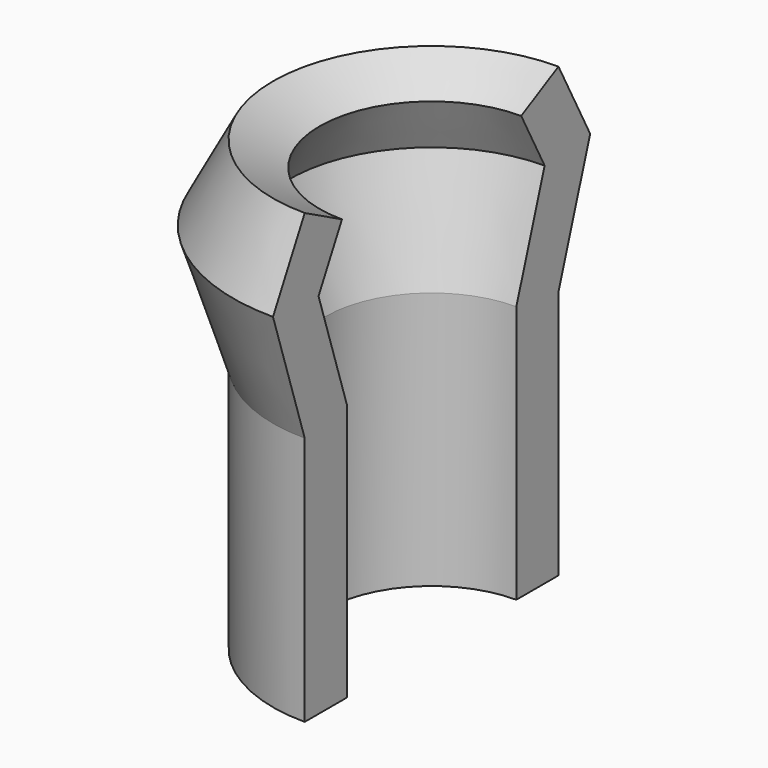
from build123d import *

# Parameters (mm, degrees)
F1_ANGLE = 180


with BuildPart() as f1:
    # F0 (on Front) → F1 (revolve, symmetric)
    with BuildSketch(Plane.XZ) as f1_sk:
        Polygon((-30.562608, 38.93813), (-33.217363, 40.335368), (-35.477046, 36.041968), (-33.217363, 29.036945), (-33.217363, 14.800933), (-30.217363, 14.800933), (-30.217363, 29.508843), (-32.234412, 35.7617), align=None)
    revolve(axis=Axis((-24.178624, 0, 27.116214), (0, 0, -1)), revolution_arc=F1_ANGLE / 2)
    revolve(f1_sk.sketch, axis=Axis((-24.178624, 0, 27.116214), (0, 0, 1)), revolution_arc=F1_ANGLE / 2)


solid = f1.part
